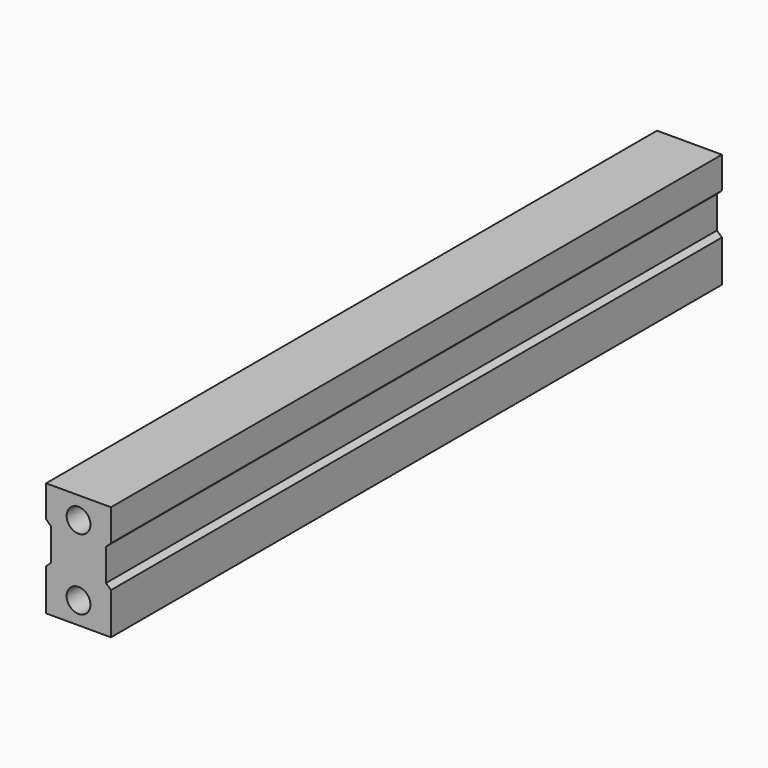
from build123d import *

# Parameters (mm, degrees)
F1_DEPTH = 208.333333
F2_R     = 3.25
F3_DEPTH = 10
F4_R     = 3.25
F5_DEPTH = 10


with BuildPart() as f1:
    # F0 (on Front) → F1 (new body)
    with BuildSketch(Plane.XZ):
        Polygon((0, 0), (8.854167, 0), (17.708333, 0), (17.708333, 11.354167), (16.354167, 12.604167), (16.354167, 21.354167), (17.708333, 22.604167), (17.708333, 31.25), (8.854167, 31.25), (0, 31.25), (0, 22.604167), (1.354167, 21.354167), (1.354167, 12.604167), (0, 11.354167), align=None)
    extrude(amount=F1_DEPTH)

    # F2 (on face) → F3 (cut)
    with BuildSketch(Plane.XZ.offset(208.333333)):
        with Locations((8.854167, 6)):
            Circle(F2_R)
        with Locations((8.854167, 25.25)):
            Circle(F2_R)
    extrude(amount=-F3_DEPTH, mode=Mode.SUBTRACT)

    # F4 (on face) → F5 (cut)
    with BuildSketch(Plane(origin=(0, 0, 0), x_dir=(-1, 0, 0), z_dir=(0, 1, 0))):
        with Locations((-8.854167, 6)):
            Circle(F4_R)
        with Locations((-8.854167, 25.25)):
            Circle(F4_R)
    extrude(amount=-F5_DEPTH, mode=Mode.SUBTRACT)


solid = f1.part
